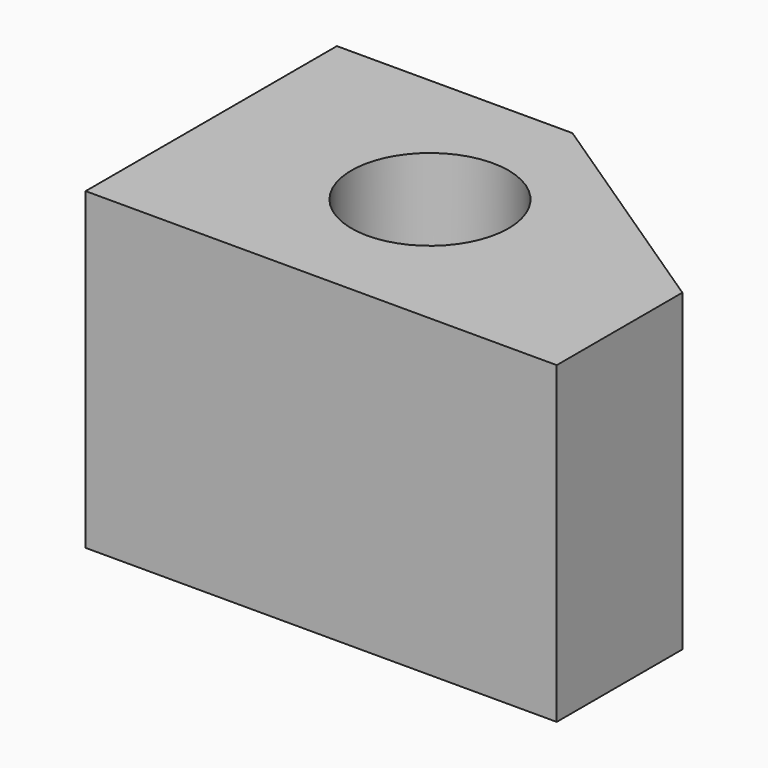
from build123d import *

# Parameters (mm, degrees)
F2_DEPTH = 50.8
F1_R     = 12.7
F3_DEPTH = 50.8


with BuildPart() as f2:
    # F0 (on Top) → F2 (new body)
    with BuildSketch(Plane.XY):
        Polygon((0, 50.8), (0, 0), (76.2, 0), (76.2, 25.4), (38.1, 50.8), align=None)
    extrude(amount=F2_DEPTH)

    # F1 (on Top) → F3 (cut)
    with BuildSketch(Plane.XY):
        with Locations((35.378572, 25.4)):
            Circle(F1_R)
    extrude(amount=F3_DEPTH, mode=Mode.SUBTRACT)


solid = f2.part
